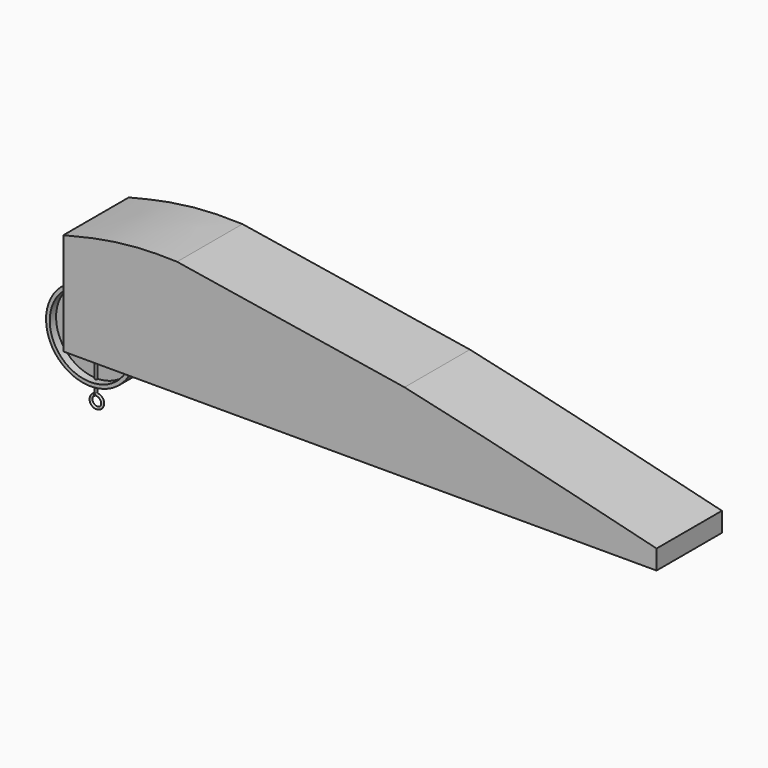
from build123d import *

# Parameters (mm, degrees)
F1_DEPTH  = 21
F2_R      = 4
F2_R_2    = 2
F3_DEPTH  = 0.1666666667
F7_R      = 0.5965900362
F9_W      = 1
F9_H      = 11
F11_W     = 67
F11_H     = 2
F13_R     = 10
F14_DEPTH = 51
F16_DEPTH = 88.001


with BuildPart() as f1:
    # F0 (on Front) → F1 (new body, symmetric)
    with BuildSketch(Plane.XZ):
        Polygon((0, 69), (0, 0), (305, 0), (305, 20), align=None)
    extrude(amount=F1_DEPTH, both=True)

    # F13 (on face) → F14 (cut)
    with BuildSketch(Plane(origin=(0, 0, 0), x_dir=(0, -1, 0), z_dir=(-1, 0, 0))):
        with Locations((0, 34)):
            Circle(F13_R)
    extrude(amount=-F14_DEPTH, mode=Mode.SUBTRACT)

    # F15 (on face) → F16 (cut, through all)
    with BuildSketch(Plane.XZ.offset(21)):
        with BuildLine():
            Line((0, 69), (0, 52.6497513056))
            add(Edge.make_bspline(
                [(0, 52.6497513056), (16.1801636824, 56.6518822073), (32.3603294862, 60.6540130326), (58.4573891807, 59.6084850169)],
                knots=[0, 0, 0, 0, 0.3260680288, 0.3260680288, 0.3260680288, 0.3260680288], degree=3))
            Line((58.4573891807, 59.6084850169), (0, 69))
        make_face()
        with BuildLine():
            add(Edge.make_bspline(
                [(175.4031095772, 40.8204840351), (215.796300494, 31.9751165237), (260.3981504467, 20.9875583734), (305, 10)],
                knots=[0.6878714237, 0.6878714237, 0.6878714237, 0.6878714237, 1, 1, 1, 1], degree=3))
            Line((305, 10), (305, 20))
            Line((305, 20), (175.4031095772, 40.8204840351))
        make_face()
    extrude(amount=-F16_DEPTH, mode=Mode.SUBTRACT)


with BuildPart() as f3:
    # F2 (on Front) → F3 (new body, symmetric)
    with BuildSketch(Plane.XZ):
        Circle(F2_R)
        Circle(F2_R_2, mode=Mode.SUBTRACT)
    extrude(amount=F3_DEPTH, both=True)


with BuildPart() as f5:
    # F4 (on Right) → F5 (revolve)
    with BuildSketch(Plane.YZ):
        Polygon((0, 2.9762672046), (0, 1.9762672046), (3.5, 1.9762672046), (3.5, 2.9762672046), (3.25, 2.9762672046), (0.25, 2.9762672046), align=None)
        Polygon((0.5, 20.9745310098), (0.25, 2.9762672046), (3.25, 2.9762672046), (3.5, 20.9745310098), (7.4996141789, 20.9189754542), (7.5273919567, 22.9187825437), (-3.4996141789, 22.9187825437), (-3.4996141789, 21.0300865654), align=None)
    revolve(axis=Axis((0, 2.0275440093, 0), (0, 1, 0)))


with BuildPart() as f8:
    # F8: sweep along a path in F6
    with BuildLine(Plane.XZ) as f8_path:
        Line((0, 0), (0, -27))
        ThreePointArc((0, -27), (0.2421828837, -27.6524670247), (0.8514264366, -27.9889013582))
        ThreePointArc((0.8514264366, -27.9889013582), (0.7491852543, -33.9358775391), (-0.7031967419, -28.1680733215))
    # F7 (on Top) → F8 (sweep)
    with BuildSketch(Plane.XY):
        Circle(F7_R)
    sweep(path=f8_path.line)


with BuildPart() as f10:
    # F9 (on Right) → F10 (revolve)
    with BuildSketch(Plane.YZ):
        Polygon((4, 2), (0, 2), (0, 1), (9, 1), (9, 2), (5, 2), align=None)
        with Locations((4.5, 7.5)):
            Rectangle(F9_W, F9_H)
    revolve(axis=Axis((0, 4.5, 0), (0, 1, 0)))


with BuildPart() as f12:
    # F11 (on Right) → F12 (revolve)
    with BuildSketch(Plane.YZ):
        with Locations((33.5, 1)):
            Rectangle(F11_W, F11_H)
    revolve(axis=Axis((0, 33.5, 0), (0, 1, 0)))


solid = Compound([f1.part, f3.part, f5.part, f8.part, f10.part, f12.part])
